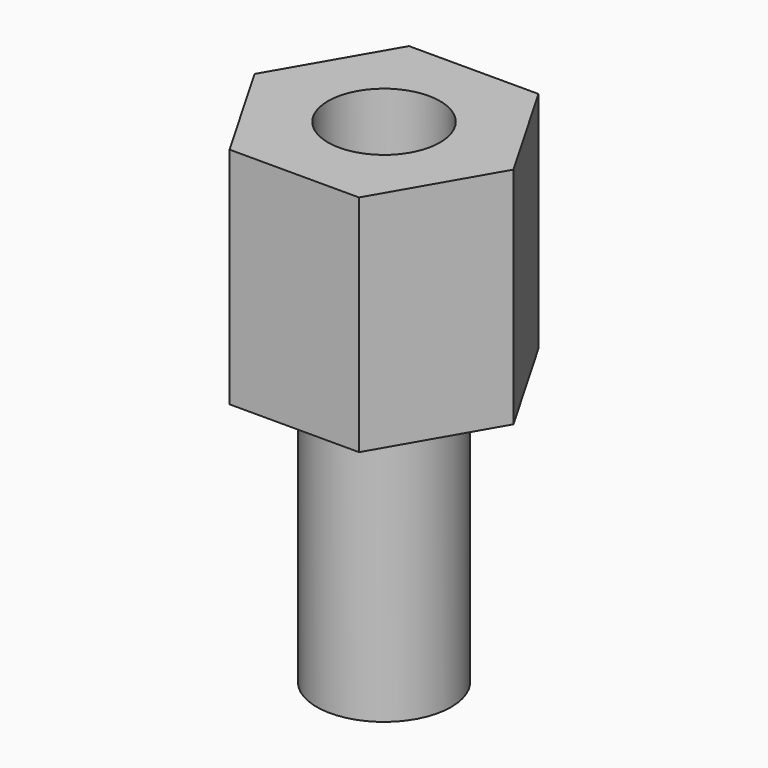
from build123d import *

# Parameters (mm, degrees)
F1_DEPTH = 10
F3_D     = 5
F3_DEPTH = 8
F3_TIP   = 1.5021515476
F4_R     = 3
F5_DEPTH = 12


with BuildPart() as f1:
    # F0 (on Top) → F1 (new body)
    with BuildSketch(Plane.XY):
        Polygon((2.8867513459, 5), (-2.8867513459, 5), (-5.7735026919, 0), (-2.8867513459, -5), (2.8867513459, -5), (5.7735026919, 0), align=None)
    extrude(amount=F1_DEPTH)

    # F3
    with Locations(Plane.XY.offset(10)):
        with Locations((0, 0)):
            Hole(F3_D / 2, depth=F3_DEPTH)
            with Locations((0, 0, -(F3_DEPTH + F3_TIP / 2))):  # 118° drill point
                Cone(0, F3_D / 2, F3_TIP, mode=Mode.SUBTRACT)

    # F4 (on face) → F5 (join)
    with BuildSketch(Plane(origin=(0, 0, 0), x_dir=(1, 0, 0), z_dir=(0, 0, -1))):
        Circle(F4_R)
    extrude(amount=F5_DEPTH)


solid = f1.part
